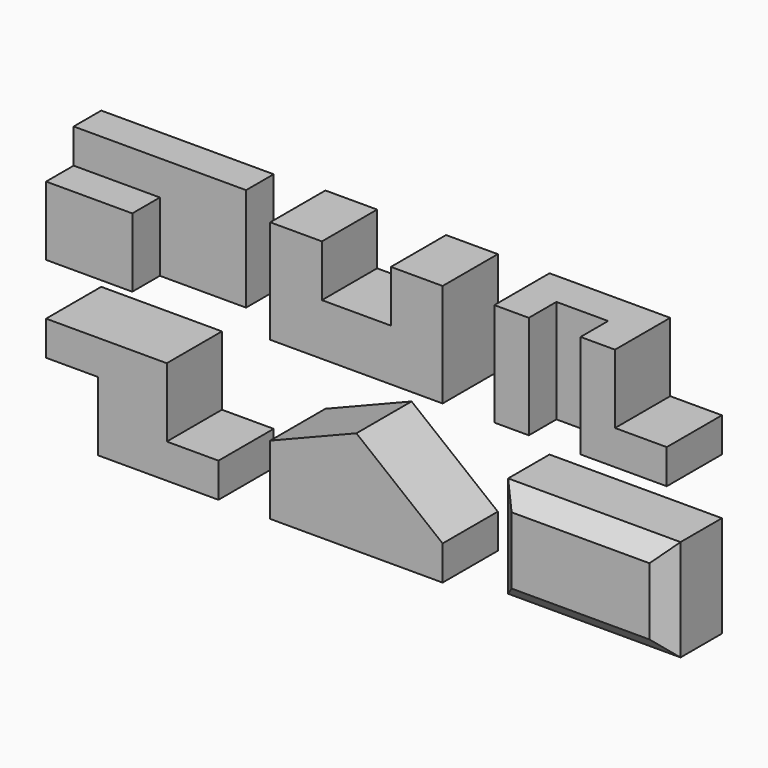
from build123d import *

# Parameters (mm, degrees)
F1_DEPTH = 101.6
F2_DEPTH = 50.8
F0_W     = 127
F0_H     = 101.6
F3_DEPTH = 101.6
F4_DEPTH = 101.6
F5_W     = 76.2
F5_H     = 152.4
F6_DEPTH = 50.8
F7_DEPTH = 101.6
F8_DEPTH = 101.6
F0_W_2   = 254
F0_H_2   = 149.6527589202
F9_DEPTH = 101.6
F10_SIZE = 25.4


with BuildPart() as f1:
    # F0 (on Front) → F1 (new body)
    with BuildSketch(Plane.XZ):
        Polygon((0, 152.4), (0, 0), (254, 0), (254, 152.4), (177.8, 152.4), (177.8, 76.2), (76.2, 76.2), (76.2, 152.4), align=None)
    extrude(amount=F1_DEPTH)


with BuildPart() as f2:
    # F0 (on Front) → F2 (new body)
    with BuildSketch(Plane.XZ):
        Polygon((-203.2, -3.7458194733), (-76.2, -3.7458194733), (-76.2, 148.6541805267), (-330.2, 148.6541805267), (-330.2, 97.8541805267), (-203.2, 97.8541805267), align=None)
    extrude(amount=F2_DEPTH)

    # F0 (on Front) → F3 (join)
    with BuildSketch(Plane.XZ):
        with Locations((-266.7, 47.0541805267)):
            Rectangle(F0_W, F0_H)
    extrude(amount=F3_DEPTH)


with BuildPart() as f4:
    # F0 (on Front) → F4 (new body)
    with BuildSketch(Plane.XZ):
        Polygon((508, 152.4), (330.2, 152.4), (330.2, 0), (584.2, 0), (584.2, 50.8), (508, 50.8), align=None)
    extrude(amount=F4_DEPTH)

    # F5 (on face) → F6 (cut)
    with BuildSketch(Plane.XZ.offset(101.6)):
        with Locations((419.1, 76.2)):
            Rectangle(F5_W, F5_H)
    extrude(amount=-F6_DEPTH, mode=Mode.SUBTRACT)


with BuildPart() as f7:
    # F0 (on Front) → F7 (new body)
    with BuildSketch(Plane.XZ):
        Polygon((-152.4, -79.9458194733), (-330.2, -79.9458194733), (-330.2, -130.7458194733), (-254, -130.7458194733), (-254, -232.3458194733), (-76.2, -232.3458194733), (-76.2, -181.5458194733), (-152.4, -181.5458194733), align=None)
    extrude(amount=F7_DEPTH)


with BuildPart() as f8:
    # F0 (on Front) → F8 (new body)
    with BuildSketch(Plane.XZ):
        Polygon((254, -181.5458194733), (127, -79.9458194733), (0, -130.7458194733), (0, -232.3458194733), (254, -232.3458194733), align=None)
    extrude(amount=F8_DEPTH)


with BuildPart() as f9:
    # F0 (on Front) → F9 (new body)
    with BuildSketch(Plane.XZ):
        with Locations((457.2, -157.5194400132)):
            Rectangle(F0_W_2, F0_H_2)
    extrude(amount=F9_DEPTH)

    # F10
    f10_edges = [f9.edges().sort_by_distance(p)[0] for p in [
        (330.2, -101.6, -157.51944),
        (457.2, -101.6, -232.345819),
        (584.2, -101.6, -157.51944),
        (457.2, -101.6, -82.693061),
    ]]
    chamfer(f10_edges, length=F10_SIZE)


solid = Compound([f1.part, f2.part, f4.part, f7.part, f8.part, f9.part])
